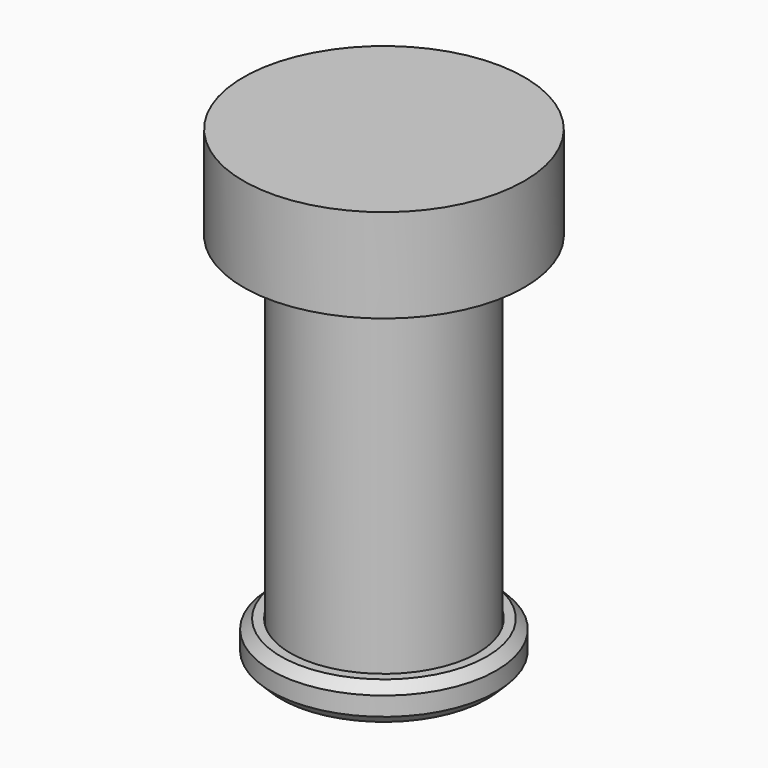
from build123d import *

# Parameters (mm, degrees)
F3_R     = 6
F3_R_2   = 5
F4_DEPTH = 2
F5_SIZE  = 0.5
F6_SIZE  = 0.5


with BuildPart() as f1:
    # F0 (on Front) → F1 (revolve)
    with BuildSketch(Plane.XZ):
        with BuildLine():
            Line((7.5, 0), (0, 0))
            Line((0, 0), (0, -22.5))
            ThreePointArc((0, -22.5), (2.853346, -23.000875), (4.95, -25))
            Line((4.95, -25), (4.95, -5))
            Line((4.95, -5), (7.5, -5))
            Line((7.5, -5), (7.5, 0))
        make_face()
    revolve(axis=Axis((0, 0, -11.25), (0, 0, -1)))


with BuildPart() as f4:
    # F3 (on offset) → F4 (new body)
    with BuildSketch(Plane.XY.offset(-25)):
        Circle(F3_R)
        Circle(F3_R_2, mode=Mode.SUBTRACT)
    extrude(amount=F4_DEPTH)

    # F5
    f5_edges = [f4.edges().sort_by_distance(p)[0] for p in [
        (-6, 0, -25),
    ]]
    chamfer(f5_edges, length=F5_SIZE)

    # F6
    f6_edges = [f4.edges().sort_by_distance(p)[0] for p in [
        (-6, 0, -23),
    ]]
    chamfer(f6_edges, length=F6_SIZE)


solid = Compound([f1.part, f4.part])
